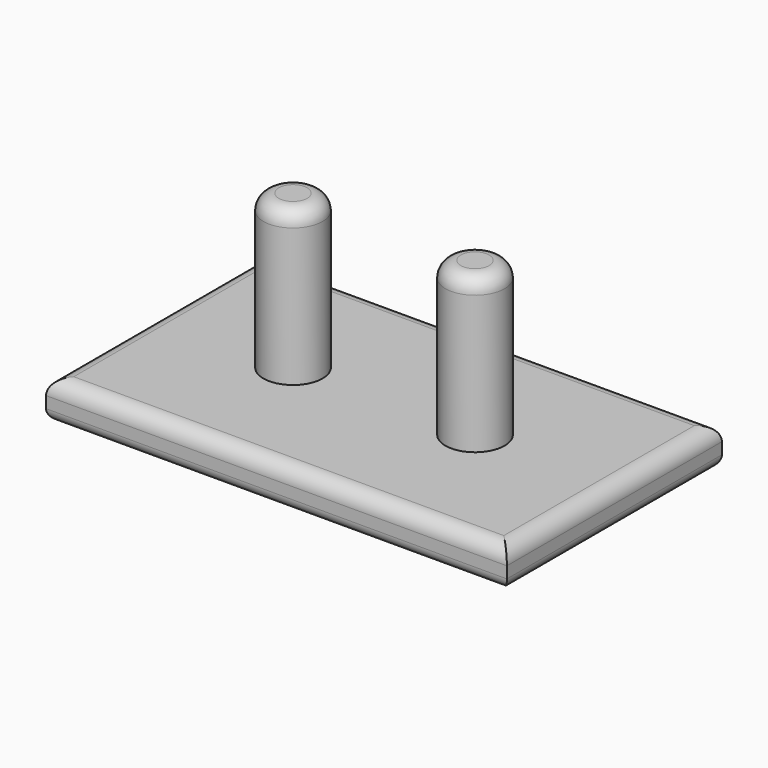
from build123d import *

# Parameters (mm, degrees)
F0_W     = 60
F0_H     = 35
F1_DEPTH = 5
F2_R     = 3.85
F3_DEPTH = 20
F4_R     = 2
F5_R     = 1.5


with BuildPart() as f1:
    # F0 (on Top) → F1 (new body)
    with BuildSketch(Plane.XY):
        Rectangle(F0_W, F0_H)
    extrude(amount=-F1_DEPTH)

    # F2 (on Top) → F3 (join)
    with BuildSketch(Plane.XY):
        with Locations((11.85, 0)):
            Circle(F2_R)
        with Locations((-11.85, 0)):
            Circle(F2_R)
    extrude(amount=F3_DEPTH)

    # F4
    f4_edges = [f1.edges().sort_by_distance(p)[0] for p in [
        (0, -17.5, 0),
        (-30, 0, 0),
        (0, 17.5, 0),
        (30, 0, 0),
        (8, 0, 20),
        (-15.7, 0, 20),
    ]]
    fillet(f4_edges, radius=F4_R)

    # F5
    f5_edges = [f1.edges().sort_by_distance(p)[0] for p in [
        (0, 17.5, -5),
        (-30, 0, -5),
        (0, -17.5, -5),
        (30, 0, -5),
    ]]
    fillet(f5_edges, radius=F5_R)


solid = f1.part
